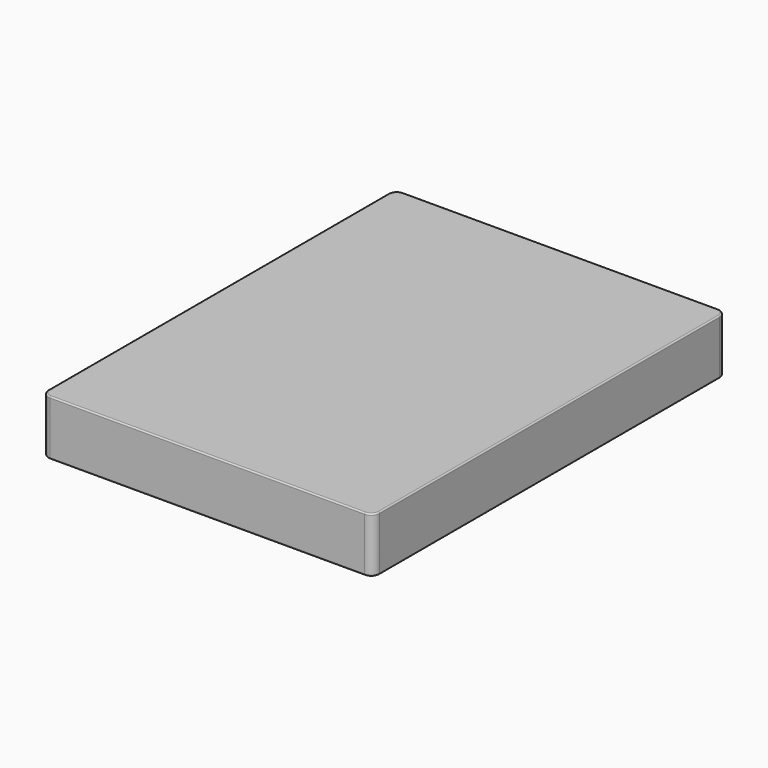
from build123d import *

# Parameters (mm, degrees)
F0_W     = 1524
F0_H     = 2032
F1_DEPTH = 254
F2_R     = 38.1
F3_R     = 6.35


with BuildPart() as f1:
    # F0 (on Top) → F1 (new body)
    with BuildSketch(Plane.XY):
        Rectangle(F0_W, F0_H)
    extrude(amount=F1_DEPTH)

    # F2
    f2_edges = [f1.edges().sort_by_distance(p)[0] for p in [
        (-762, -1016, 127),
        (762, -1016, 127),
        (762, 1016, 127),
        (-762, 1016, 127),
    ]]
    fillet(f2_edges, radius=F2_R)

    # F3
    f3_edges = [f1.edges().sort_by_distance(p)[0] for p in [
        (0, -1016, 254),
        (0, -1016, 0),
    ]]
    fillet(f3_edges, radius=F3_R)


solid = f1.part
